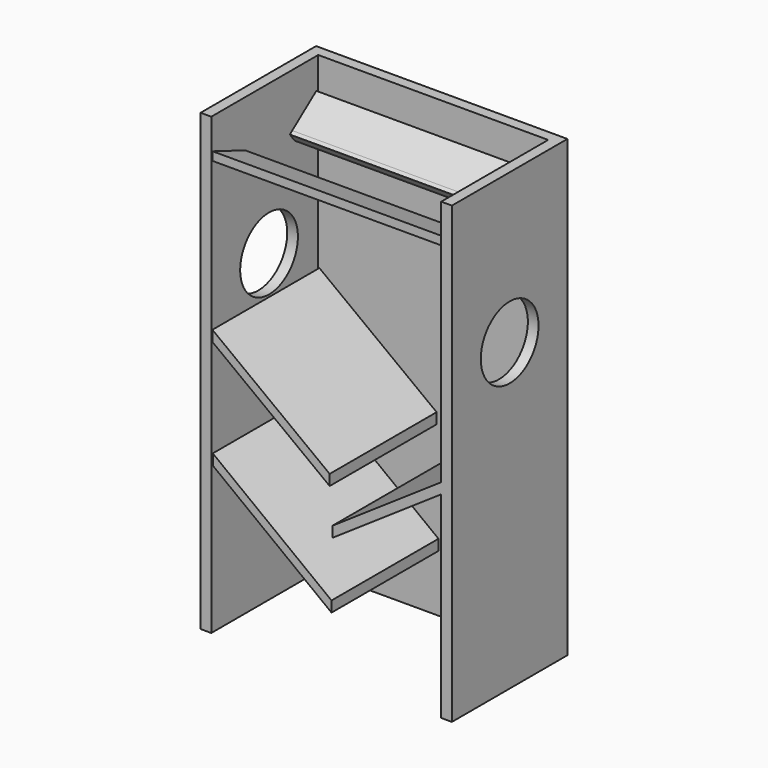
from build123d import *

# Parameters (mm, degrees)
F0_W      = 90
F0_H      = 170
F1_DEPTH  = 4
F2_W      = 50
F2_H      = 170
F3_DEPTH  = 4
F4_W      = 50
F4_H      = 170
F5_DEPTH  = 4
F6_DEPTH  = 4
F9_D      = 27
F13_DEPTH = 88.2
F15_DEPTH = 87.7
F16_DEPTH = 1.4
F21_DEPTH = 50
F23_DEPTH = 50
F25_DEPTH = 50


with BuildPart() as f1:
    # F0 (on Front) → F1 (new body)
    with BuildSketch(Plane.XZ):
        with Locations((10.9441001713, -7.0722334087)):
            Rectangle(F0_W, F0_H)
    extrude(amount=F1_DEPTH)

    # F2 (on face) → F3 (join)
    with BuildSketch(Plane.YZ.offset(55.9441001713)):
        with Locations((-29, -7.0722334087)):
            Rectangle(F2_W, F2_H)
    extrude(amount=-F3_DEPTH)


with BuildPart() as f5:
    # F4 (on face) → F5 (new body)
    with BuildSketch(Plane(origin=(-34.0558998287, 0, 0), x_dir=(0, -1, 0), z_dir=(-1, 0, 0))):
        with Locations((29, -7.0722334087)):
            Rectangle(F4_W, F4_H)
    extrude(amount=F5_DEPTH)


with BuildPart() as f6:
    # F6 (new): a face of the model
    f6_faces = [f5.part.faces().sort_by_distance(p)[0] for p in [
        (-36.0558998287, -4, -7.0722334087),
    ]]
    extrude(f6_faces, amount=F6_DEPTH)


with BuildPart() as f1_1:
    add(f1.part)

    # F7: union F6, F5
    add(f6.part)
    add(f5.part)

    # F9 (through all)
    with Locations(Plane.YZ.offset(55.9441001713)):
        with Locations((-27, 21.9277665913)):
            Hole(F9_D / 2)

    # F12 (on face) → F13 (join)
    with BuildSketch(Plane.YZ.offset(-34.0558998287)):
        Polygon((-38.1409525871, 60.4024082422), (-53.344592452, 66.2663727999), (-53.344592452, 63.0900636315), (-38.1409525871, 57.2260990739), align=None)
    extrude(amount=F13_DEPTH)

    # F14 (on face) → F15 (join)
    with BuildSketch(Plane.YZ.offset(-34.0558998287)):
        Polygon((-5.4573006312, 61.4672620258), (-4.8942677677, 66.4745345712), (-16.1511674523, 57.9817742109), (-13.9479605441, 55.0614893921), align=None)
    extrude(amount=F15_DEPTH)

    # F16 (add): a face of the model
    f16_faces = [f1_1.faces().sort_by_distance(p)[0] for p in [
        (8.9441001713, -15.0495639982, 56.5216318015),
    ]]
    extrude(f16_faces, amount=F16_DEPTH)

    # F20 (on face) → F21 (join)
    with BuildSketch(Plane.XZ.offset(4)):
        Polygon((10.2237635952, -25.2774868811), (-33.625573637, 7.9224472197), (-33.625573637, 3.9224472197), (10.2237635952, -29.2774868811), align=None)
    extrude(amount=F21_DEPTH)

    # F22 (on face) → F23 (join)
    with BuildSketch(Plane.XZ.offset(4)):
        Polygon((55.5519397916, -16.0052882843), (55.5519397916, -12.0052882843), (11.254648678, -42.0052882843), (11.254648678, -46.0052882843), align=None)
    extrude(amount=F23_DEPTH)

    # F24 (on face) → F25 (join)
    with BuildSketch(Plane.XZ.offset(4)):
        Polygon((5.6939503777, -62.7291997522), (-33.4860496223, -32.7291997522), (-33.4860496223, -36.7291997522), (5.6939503777, -66.7291997522), (10.9179503777, -70.7291997522), (10.9179503777, -66.7291997522), align=None)
    extrude(amount=F25_DEPTH)


solid = f1_1.part
